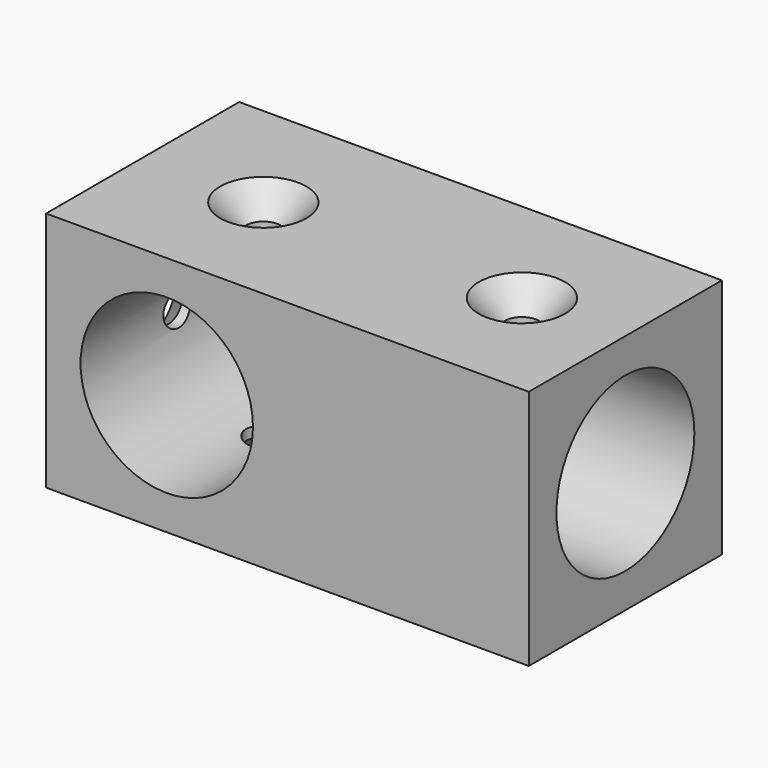
from build123d import *

# Parameters (mm, degrees)
F2_W      = 14
F2_H      = 14
F2_R      = 5
F3_DEPTH  = 14
F4_ANGLE  = -90
F6_R      = 1
F8_DEPTH  = 14.001
F7_R      = 1
F9_DEPTH  = 2.1020206144
F10_SIZE2 = 1.5
F10_SIZE  = 1.5


with BuildPart() as f3:
    # F2 (on Front) → F3 (new body)
    with BuildSketch(Plane.XZ):
        Rectangle(F2_W, F2_H)
        Circle(F2_R, mode=Mode.SUBTRACT)
    extrude(amount=F3_DEPTH)


with BuildPart() as f4_1:
    # F4: copy of F3
    add(f3.part.rotate(Axis((7, 0, 0), (0, 0, -1)), F4_ANGLE))


with BuildPart() as f3_1:
    add(f3.part)

    # F5: union F4_1
    add(f4_1.part)

    # F6 (on face) → F8 (cut, through all)
    with BuildSketch(Plane(origin=(0, 0, -7), x_dir=(1, 0, 0), z_dir=(0, 0, -1))):
        with Locations((0, 7)):
            Circle(F6_R)
        with Locations((15, 7)):
            Circle(F6_R)
    extrude(amount=-F8_DEPTH, mode=Mode.SUBTRACT)

    # F7 (on face) → F9 (cut, through all)
    with BuildSketch(Plane(origin=(-7, 0, 0), x_dir=(0, -1, 0), z_dir=(-1, 0, 0))):
        with Locations((7, 0)):
            Circle(F7_R)
    extrude(amount=-F9_DEPTH, mode=Mode.SUBTRACT)

    # F10
    f10_edges = [f3_1.edges().sort_by_distance(p)[0] for p in [
        (-1, -7, -7),
        (14, -7, -7),
        (-1, -7, 7),
        (14, -7, 7),
        (-7, -6, 0),
    ]]
    chamfer(f10_edges, length=F10_SIZE, length2=F10_SIZE2)


solid = f3_1.part
